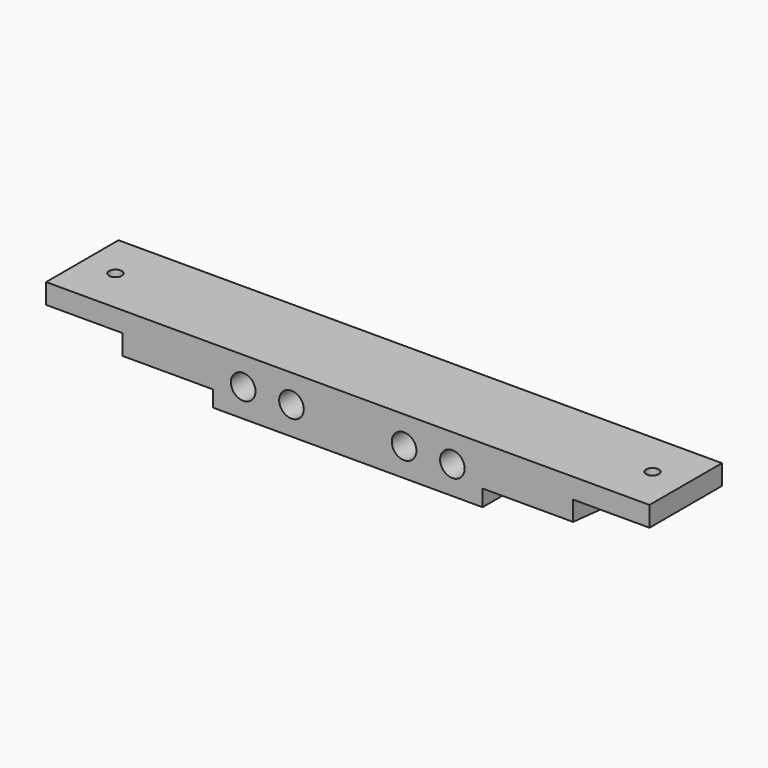
from build123d import *

# Parameters (mm, degrees)
SKETCH007_R     = 3.0625
PAD002_DEPTH    = 22.5
POCKET005_DEPTH = 22.5
POCKET006_DEPTH = 22.5
SKETCH010_R     = 3.875
POCKET007_DEPTH = 10
SKETCH011_W     = 2.5
SKETCH011_H     = 12.25
POCKET008_DEPTH = 15
SKETCH012_W     = 2.5
SKETCH012_H     = 9.3
POCKET009_DEPTH = 9.25
SKETCH013_W     = 2.5
SKETCH013_H     = 12.25
POCKET010_DEPTH = 15
SKETCH014_W     = 2.5
SKETCH014_H     = 9.8
POCKET011_DEPTH = 9.25
SKETCH031_R     = 1.6
POCKET019_DEPTH = 5
POCKET020_DEPTH = 2


with BuildPart() as part:
    # Sketch007 → Pad002 (new body)
    with BuildSketch(Plane.XZ):
        Polygon((-56, -7), (56, -7), (56, 2), (75, 2), (75, 7), (-75, 7), (-75, 2), (-56, 2), align=None)
        with Locations((-14, 0)):
            Circle(SKETCH007_R, mode=Mode.SUBTRACT)
        with Locations((14, 0)):
            Circle(SKETCH007_R, mode=Mode.SUBTRACT)
        with Locations((-26, 0)):
            Circle(SKETCH007_R, mode=Mode.SUBTRACT)
        with Locations((26, 0)):
            Circle(SKETCH007_R, mode=Mode.SUBTRACT)
    extrude(amount=PAD002_DEPTH)

    # Sketch008 (on Face3 of Pad002) → Pocket005 (cut)
    with BuildSketch(Plane(origin=(-56, 0, 0), x_dir=(0, 0, -1), z_dir=(-1, 0, 0))):
        Polygon((5, 22.5), (3, 22.5), (5, 0), (12, 0), (12, 22.5), align=None)
    extrude(amount=-POCKET005_DEPTH, mode=Mode.SUBTRACT)

    # Sketch009 (on Face11 of Pocket005) → Pocket006 (cut)
    with BuildSketch(Plane(origin=(56, 0, 0), x_dir=(0, 0, 1), z_dir=(1, 0, 0))):
        Polygon((-4.9, 0), (-11.9, 0), (-11.9, 22.5), (-4.9, 22.5), (-2.9, 22.5), align=None)
    extrude(amount=-POCKET006_DEPTH, mode=Mode.SUBTRACT)

    # Sketch010 (on Face8 of Pocket006) → Pocket007 (cut)
    with BuildSketch(Plane(origin=(0, -0.4409603136, -4.9608035277), x_dir=(1, 0, 0), z_dir=(0, -0.0885397903, -0.9960726407))):
        with Locations((-44.75, 11.3)):
            Circle(SKETCH010_R)
        with Locations((44.75, 11.3)):
            Circle(SKETCH010_R)
    extrude(amount=-POCKET007_DEPTH, mode=Mode.SUBTRACT)

    # Sketch011 (on Face13 of Pocket007) → Pocket008 (cut)
    with BuildSketch(Plane(origin=(56, 0, 0), x_dir=(0, 0, 1), z_dir=(1, 0, 0))):
        with Locations((0.75, 6.125)):
            Rectangle(SKETCH011_W, SKETCH011_H)
    extrude(amount=-POCKET008_DEPTH, mode=Mode.SUBTRACT)

    # Sketch012 (on Face15 of Pocket008) → Pocket009 (cut)
    with BuildSketch(Plane(origin=(41, 0, 0), x_dir=(0, 0, 1), z_dir=(1, 0, 0))):
        with Locations((0.75, 7.6)):
            Rectangle(SKETCH012_W, SKETCH012_H)
    extrude(amount=-POCKET009_DEPTH, mode=Mode.SUBTRACT)

    # Sketch013 (on Face7 of Pocket009) → Pocket010 (cut)
    with BuildSketch(Plane(origin=(-56, 0, 0), x_dir=(0, 0, -1), z_dir=(-1, 0, 0))):
        with Locations((-0.75, 6.125)):
            Rectangle(SKETCH013_W, SKETCH013_H)
    extrude(amount=-POCKET010_DEPTH, mode=Mode.SUBTRACT)

    # Sketch014 (on Face9 of Pocket010) → Pocket011 (cut)
    with BuildSketch(Plane(origin=(-41, 0, 0), x_dir=(0, 0, -1), z_dir=(-1, 0, 0))):
        with Locations((-0.75, 7.35)):
            Rectangle(SKETCH014_W, SKETCH014_H)
    extrude(amount=-POCKET011_DEPTH, mode=Mode.SUBTRACT)

    # Sketch031 (on Face2 of Pocket011) → Pocket019 (cut)
    with BuildSketch(Plane(origin=(0, 0, 7), x_dir=(-1, 0, 0), z_dir=(0, 0, 1))):
        with Locations((-66.75, 11.25)):
            Circle(SKETCH031_R)
        with Locations((66.75, 11.25)):
            Circle(SKETCH031_R)
    extrude(amount=-POCKET019_DEPTH, mode=Mode.SUBTRACT)

    # Sketch032 (on Face22 of Pocket019) → Pocket020 (cut)
    with BuildSketch(Plane(origin=(0, 0, 2), x_dir=(1, 0, 0), z_dir=(0, 0, -1))):
        Polygon((-65.125, 8.4354174377), (-63.5, 11.25), (-65.125, 14.0645825623), (-68.375, 14.0645825623), (-70, 11.25), (-68.375, 8.4354174377), align=None)
        Polygon((68.375, 8.4354174377), (70, 11.25), (68.375, 14.0645825623), (65.125, 14.0645825623), (63.5, 11.25), (65.125, 8.4354174377), align=None)
    extrude(amount=-POCKET020_DEPTH, mode=Mode.SUBTRACT)


solid = part.part
